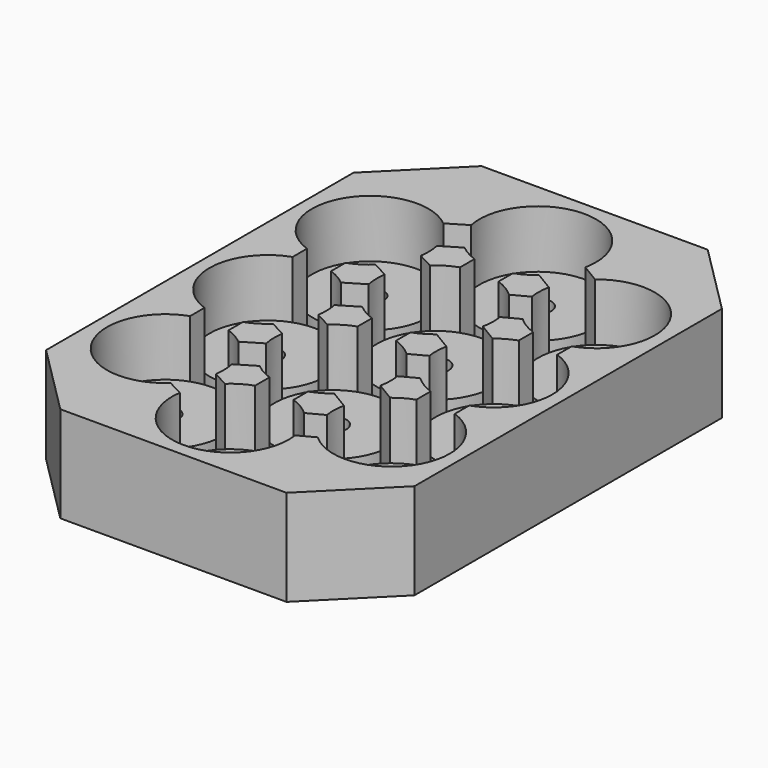
from build123d import *

# Parameters (mm, degrees)
F1_DEPTH = 15
F0_R     = 2.1
F2_DEPTH = 6


with BuildPart() as f1:
    # F0 (on Top) → F1 (new body)
    with BuildSketch(Plane.XY):
        Polygon((-17.6589518572, 71.1), (-28.7589518572, 60), (-28.7589518572, 0), (-17.6589518572, -11.1), (17.6589518572, -11.1), (28.7589518572, 0), (28.7589518572, 60), (17.6589518572, 71.1), align=None)
        with BuildLine():
            ThreePointArc((-20.6589518572, 40.7981566122), (-25.5791886902, 53.8704856527), (-11.8399063862, 56.3857667112))
            Line((-11.8399063862, 56.3857667112), (-8.9092739205, 58.1466683487))
            ThreePointArc((-8.9092739205, 58.1466683487), (-0.9315598004, 69.0521929022), (9.1, 60))
            ThreePointArc((9.1, 60), (9.0521929022, 59.0684401996), (8.9092739205, 58.1466683487))
            Line((8.9092739205, 58.1466683487), (11.8399063862, 56.3857667112))
            ThreePointArc((11.8399063862, 56.3857667112), (21.5226732637, 57.6284637774), (26.7589518572, 49.3894312557))
            ThreePointArc((26.7589518572, 49.3894312557), (25.078857517, 44.1211298217), (20.6589518572, 40.7981566122))
            Line((20.6589518572, 40.7981566122), (20.6589518572, 37.9807058992))
            ThreePointArc((20.6589518572, 37.9807058992), (25.078857517, 34.6577326898), (26.7589518572, 29.3894312557))
            ThreePointArc((26.7589518572, 29.3894312557), (25.078857517, 24.1211298217), (20.6589518572, 20.7981566122))
            Line((20.6589518572, 20.7981566122), (20.6589518572, 17.9807058992))
            ThreePointArc((20.6589518572, 17.9807058992), (25.078857517, 14.6577326898), (26.7589518572, 9.3894312557))
            ThreePointArc((26.7589518572, 9.3894312557), (21.3056765344, 1.0520816092), (11.4817212795, 2.7072293439))
            Line((11.4817212795, 2.7072293439), (8.9940599544, 1.3845163546))
            ThreePointArc((8.9940599544, 1.3845163546), (9.0734763345, 0.6942817925), (9.1, 0))
            ThreePointArc((9.1, 0), (-0.6942817925, -9.0734763345), (-8.9940599544, 1.3845163546))
            Line((-8.9940599544, 1.3845163546), (-11.4817212795, 2.7072293439))
            ThreePointArc((-11.4817212795, 2.7072293439), (-25.4591742936, 4.702584774), (-20.6589518572, 17.9807058992))
            Line((-20.6589518572, 17.9807058992), (-20.6589518572, 20.7981566122))
            ThreePointArc((-20.6589518572, 20.7981566122), (-26.7589518572, 29.3894312557), (-20.6589518572, 37.9807058992))
            Line((-20.6589518572, 37.9807058992), (-20.6589518572, 40.7981566122))
        make_face(mode=Mode.SUBTRACT)
    extrude(amount=F1_DEPTH)



with BuildPart() as f1b:
    # F0 (on Top) → F1, piece 2 (new body)
    with BuildSketch(Plane.XY):
        with BuildLine():
            ThreePointArc((-8.7496779367, 51.242762907), (-8.606758955, 50.3209910562), (-8.5589518572, 49.3894312557))
            ThreePointArc((-8.5589518572, 49.3894312557), (-8.5854755227, 48.6951494632), (-8.6648919028, 48.0049149011))
            Line((-8.6648919028, 48.0049149011), (-6.1772305777, 46.6822019118))
            ThreePointArc((-6.1772305777, 46.6822019118), (-4.6868464817, 47.8002224364), (-3, 48.5912746435))
            Line((-3, 48.5912746435), (-3, 51.4087253565))
            ThreePointArc((-3, 51.4087253565), (-4.4810543969, 52.0797631669), (-5.819045471, 53.0036645445))
            Line((-5.819045471, 53.0036645445), (-8.7496779367, 51.242762907))
        make_face()
    extrude(amount=F1_DEPTH)


with BuildPart() as f1c:
    # F0 (on Top) → F1, piece 3 (new body)
    with BuildSketch(Plane.XY):
        with BuildLine():
            ThreePointArc((5.819045471, 53.0036645445), (4.4810543969, 52.0797631669), (3, 51.4087253565))
            Line((3, 51.4087253565), (3, 48.5912746435))
            ThreePointArc((3, 48.5912746435), (4.6868464817, 47.8002224364), (6.1772305777, 46.6822019118))
            Line((6.1772305777, 46.6822019118), (8.6648919028, 48.0049149011))
            ThreePointArc((8.6648919028, 48.0049149011), (8.5620701999, 49.6276414853), (8.7496779367, 51.242762907))
            Line((8.7496779367, 51.242762907), (5.819045471, 53.0036645445))
        make_face()
    extrude(amount=F1_DEPTH)


with BuildPart() as f1d:
    # F0 (on Top) → F1, piece 4 (new body)
    with BuildSketch(Plane.XY):
        with BuildLine():
            Line((11.4817212795, 42.7072293439), (8.9940599544, 41.3845163546))
            ThreePointArc((8.9940599544, 41.3845163546), (9.0734763345, 40.6942817925), (9.1, 40))
            ThreePointArc((9.1, 40), (9.0521929022, 39.0684401996), (8.9092739205, 38.1466683487))
            Line((8.9092739205, 38.1466683487), (11.8399063862, 36.3857667112))
            ThreePointArc((11.8399063862, 36.3857667112), (13.1778974602, 37.3096680888), (14.6589518572, 37.9807058992))
            Line((14.6589518572, 37.9807058992), (14.6589518572, 40.7981566122))
            ThreePointArc((14.6589518572, 40.7981566122), (12.9721053755, 41.5892088193), (11.4817212795, 42.7072293439))
        make_face()
    extrude(amount=F1_DEPTH)


with BuildPart() as f1e:
    # F0 (on Top) → F1, piece 5 (new body)
    with BuildSketch(Plane.XY):
        with BuildLine():
            Line((-8.9940599544, 41.3845163546), (-11.4817212795, 42.7072293439))
            ThreePointArc((-11.4817212795, 42.7072293439), (-12.9721053755, 41.5892088193), (-14.6589518572, 40.7981566122))
            Line((-14.6589518572, 40.7981566122), (-14.6589518572, 37.9807058992))
            ThreePointArc((-14.6589518572, 37.9807058992), (-13.1778974602, 37.3096680888), (-11.8399063862, 36.3857667112))
            Line((-11.8399063862, 36.3857667112), (-8.9092739205, 38.1466683487))
            ThreePointArc((-8.9092739205, 38.1466683487), (-9.0968816573, 39.7617897704), (-8.9940599544, 41.3845163546))
        make_face()
    extrude(amount=F1_DEPTH)


with BuildPart() as f1f:
    # F0 (on Top) → F1, piece 6 (new body)
    with BuildSketch(Plane.XY):
        with BuildLine():
            ThreePointArc((-3, 31.4087253565), (-4.4810543969, 32.0797631669), (-5.819045471, 33.0036645445))
            Line((-5.819045471, 33.0036645445), (-8.7496779367, 31.242762907))
            ThreePointArc((-8.7496779367, 31.242762907), (-8.606758955, 30.3209910562), (-8.5589518572, 29.3894312557))
            ThreePointArc((-8.5589518572, 29.3894312557), (-8.5854755227, 28.6951494632), (-8.6648919028, 28.0049149011))
            Line((-8.6648919028, 28.0049149011), (-6.1772305777, 26.6822019118))
            ThreePointArc((-6.1772305777, 26.6822019118), (-4.6868464817, 27.8002224364), (-3, 28.5912746435))
            Line((-3, 28.5912746435), (-3, 31.4087253565))
        make_face()
    extrude(amount=F1_DEPTH)


with BuildPart() as f1g:
    # F0 (on Top) → F1, piece 7 (new body)
    with BuildSketch(Plane.XY):
        with BuildLine():
            ThreePointArc((5.819045471, 33.0036645445), (4.4810543969, 32.0797631669), (3, 31.4087253565))
            Line((3, 31.4087253565), (3, 28.5912746435))
            ThreePointArc((3, 28.5912746435), (4.6868464817, 27.8002224364), (6.1772305777, 26.6822019118))
            Line((6.1772305777, 26.6822019118), (8.6648919028, 28.0049149011))
            ThreePointArc((8.6648919028, 28.0049149011), (8.5620701999, 29.6276414853), (8.7496779367, 31.242762907))
            Line((8.7496779367, 31.242762907), (5.819045471, 33.0036645445))
        make_face()
    extrude(amount=F1_DEPTH)


with BuildPart() as f1h:
    # F0 (on Top) → F1, piece 8 (new body)
    with BuildSketch(Plane.XY):
        with BuildLine():
            Line((11.4817212795, 22.7072293439), (8.9940599544, 21.3845163546))
            ThreePointArc((8.9940599544, 21.3845163546), (9.0734763345, 20.6942817925), (9.1, 20))
            ThreePointArc((9.1, 20), (9.0521929022, 19.0684401996), (8.9092739205, 18.1466683487))
            Line((8.9092739205, 18.1466683487), (11.8399063862, 16.3857667112))
            ThreePointArc((11.8399063862, 16.3857667112), (13.1778974602, 17.3096680888), (14.6589518572, 17.9807058992))
            Line((14.6589518572, 17.9807058992), (14.6589518572, 20.7981566122))
            ThreePointArc((14.6589518572, 20.7981566122), (12.9721053755, 21.5892088193), (11.4817212795, 22.7072293439))
        make_face()
    extrude(amount=F1_DEPTH)


with BuildPart() as f1i:
    # F0 (on Top) → F1, piece 9 (new body)
    with BuildSketch(Plane.XY):
        with BuildLine():
            Line((3, 11.4087253565), (3, 8.5912746435))
            ThreePointArc((3, 8.5912746435), (4.6868464817, 7.8002224364), (6.1772305777, 6.6822019118))
            Line((6.1772305777, 6.6822019118), (8.6648919028, 8.0049149011))
            ThreePointArc((8.6648919028, 8.0049149011), (8.5620701999, 9.6276414853), (8.7496779367, 11.242762907))
            Line((8.7496779367, 11.242762907), (5.819045471, 13.0036645445))
            ThreePointArc((5.819045471, 13.0036645445), (4.4810543969, 12.0797631669), (3, 11.4087253565))
        make_face()
    extrude(amount=F1_DEPTH)


with BuildPart() as f1j:
    # F0 (on Top) → F1, piece 10 (new body)
    with BuildSketch(Plane.XY):
        with BuildLine():
            ThreePointArc((-11.4817212795, 22.7072293439), (-12.9721053755, 21.5892088193), (-14.6589518572, 20.7981566122))
            Line((-14.6589518572, 20.7981566122), (-14.6589518572, 17.9807058992))
            ThreePointArc((-14.6589518572, 17.9807058992), (-13.1778974602, 17.3096680888), (-11.8399063862, 16.3857667112))
            Line((-11.8399063862, 16.3857667112), (-8.9092739205, 18.1466683487))
            ThreePointArc((-8.9092739205, 18.1466683487), (-9.0968816573, 19.7617897704), (-8.9940599544, 21.3845163546))
            Line((-8.9940599544, 21.3845163546), (-11.4817212795, 22.7072293439))
        make_face()
    extrude(amount=F1_DEPTH)


with BuildPart() as f1k:
    # F0 (on Top) → F1, piece 11 (new body)
    with BuildSketch(Plane.XY):
        with BuildLine():
            ThreePointArc((-8.5589518572, 9.3894312557), (-8.5854755227, 8.6951494632), (-8.6648919028, 8.0049149011))
            Line((-8.6648919028, 8.0049149011), (-6.1772305777, 6.6822019118))
            ThreePointArc((-6.1772305777, 6.6822019118), (-4.6868464817, 7.8002224364), (-3, 8.5912746435))
            Line((-3, 8.5912746435), (-3, 11.4087253565))
            ThreePointArc((-3, 11.4087253565), (-4.4810543969, 12.0797631669), (-5.819045471, 13.0036645445))
            Line((-5.819045471, 13.0036645445), (-8.7496779367, 11.242762907))
            ThreePointArc((-8.7496779367, 11.242762907), (-8.606758955, 10.3209910562), (-8.5589518572, 9.3894312557))
        make_face()
    extrude(amount=F1_DEPTH)


with BuildPart() as f1_1:
    add(f1.part)

    add(f1b.part)  # F2 merges F1b

    add(f1c.part)  # F2 merges F1c

    add(f1d.part)  # F2 merges F1d

    add(f1e.part)  # F2 merges F1e

    add(f1f.part)  # F2 merges F1f

    add(f1g.part)  # F2 merges F1g

    add(f1h.part)  # F2 merges F1h

    add(f1i.part)  # F2 merges F1i

    add(f1j.part)  # F2 merges F1j

    add(f1k.part)  # F2 merges F1k
    # F0 (on Top) → F2 (join)
    with BuildSketch(Plane.XY):
        with BuildLine():
            ThreePointArc((-8.9092739205, 58.1466683487), (-7.8002224364, 55.3131535183), (-5.819045471, 53.0036645445))
            ThreePointArc((-5.819045471, 53.0036645445), (-4.4810543969, 52.0797631669), (-3, 51.4087253565))
            ThreePointArc((-3, 51.4087253565), (0, 50.9), (3, 51.4087253565))
            ThreePointArc((3, 51.4087253565), (4.4810543969, 52.0797631669), (5.819045471, 53.0036645445))
            ThreePointArc((5.819045471, 53.0036645445), (7.8002224364, 55.3131535183), (8.9092739205, 58.1466683487))
            ThreePointArc((8.9092739205, 58.1466683487), (9.0521929022, 59.0684401996), (9.1, 60))
            ThreePointArc((9.1, 60), (-0.9315598004, 69.0521929022), (-8.9092739205, 58.1466683487))
        make_face()
        with Locations((0, 60)):
            Circle(F0_R, mode=Mode.SUBTRACT)
        with BuildLine():
            ThreePointArc((26.7589518572, 49.3894312557), (21.5226732637, 57.6284637774), (11.8399063862, 56.3857667112))
            ThreePointArc((11.8399063862, 56.3857667112), (9.8587294208, 54.0762777374), (8.7496779367, 51.242762907))
            ThreePointArc((8.7496779367, 51.242762907), (8.5620701999, 49.6276414853), (8.6648919028, 48.0049149011))
            ThreePointArc((8.6648919028, 48.0049149011), (9.6241287622, 45.1172400344), (11.4817212795, 42.7072293439))
            ThreePointArc((11.4817212795, 42.7072293439), (12.9721053755, 41.5892088193), (14.6589518572, 40.7981566122))
            ThreePointArc((14.6589518572, 40.7981566122), (17.6589518572, 40.2894312557), (20.6589518572, 40.7981566122))
            ThreePointArc((20.6589518572, 40.7981566122), (25.078857517, 44.1211298217), (26.7589518572, 49.3894312557))
        make_face()
        with Locations((17.6589518572, 49.3894312557)):
            Circle(F0_R, mode=Mode.SUBTRACT)
        with BuildLine():
            ThreePointArc((-8.6648919028, 48.0049149011), (-8.5854755227, 48.6951494632), (-8.5589518572, 49.3894312557))
            ThreePointArc((-8.5589518572, 49.3894312557), (-8.606758955, 50.3209910562), (-8.7496779367, 51.242762907))
            ThreePointArc((-8.7496779367, 51.242762907), (-9.8587294208, 54.0762777374), (-11.8399063862, 56.3857667112))
            ThreePointArc((-11.8399063862, 56.3857667112), (-25.5791886902, 53.8704856527), (-20.6589518572, 40.7981566122))
            ThreePointArc((-20.6589518572, 40.7981566122), (-17.6589518572, 40.2894312557), (-14.6589518572, 40.7981566122))
            ThreePointArc((-14.6589518572, 40.7981566122), (-12.9721053755, 41.5892088193), (-11.4817212795, 42.7072293439))
            ThreePointArc((-11.4817212795, 42.7072293439), (-9.6241287622, 45.1172400344), (-8.6648919028, 48.0049149011))
        make_face()
        with Locations((-17.6589518572, 49.3894312557)):
            Circle(F0_R, mode=Mode.SUBTRACT)
        with BuildLine():
            ThreePointArc((-14.6589518572, 37.9807058992), (-17.6589518572, 38.4894312557), (-20.6589518572, 37.9807058992))
            ThreePointArc((-20.6589518572, 37.9807058992), (-26.7589518572, 29.3894312557), (-20.6589518572, 20.7981566122))
            ThreePointArc((-20.6589518572, 20.7981566122), (-17.6589518572, 20.2894312557), (-14.6589518572, 20.7981566122))
            ThreePointArc((-14.6589518572, 20.7981566122), (-12.9721053755, 21.5892088193), (-11.4817212795, 22.7072293439))
            ThreePointArc((-11.4817212795, 22.7072293439), (-9.6241287622, 25.1172400344), (-8.6648919028, 28.0049149011))
            ThreePointArc((-8.6648919028, 28.0049149011), (-8.5854755227, 28.6951494632), (-8.5589518572, 29.3894312557))
            ThreePointArc((-8.5589518572, 29.3894312557), (-8.606758955, 30.3209910562), (-8.7496779367, 31.242762907))
            ThreePointArc((-8.7496779367, 31.242762907), (-9.8587294208, 34.0762777374), (-11.8399063862, 36.3857667112))
            ThreePointArc((-11.8399063862, 36.3857667112), (-13.1778974602, 37.3096680888), (-14.6589518572, 37.9807058992))
        make_face()
        with Locations((-17.6589518572, 29.3894312557)):
            Circle(F0_R, mode=Mode.SUBTRACT)
        with BuildLine():
            ThreePointArc((26.7589518572, 29.3894312557), (25.078857517, 34.6577326898), (20.6589518572, 37.9807058992))
            ThreePointArc((20.6589518572, 37.9807058992), (17.6589518572, 38.4894312557), (14.6589518572, 37.9807058992))
            ThreePointArc((14.6589518572, 37.9807058992), (13.1778974602, 37.3096680888), (11.8399063862, 36.3857667112))
            ThreePointArc((11.8399063862, 36.3857667112), (9.8587294208, 34.0762777374), (8.7496779367, 31.242762907))
            ThreePointArc((8.7496779367, 31.242762907), (8.5620701999, 29.6276414853), (8.6648919028, 28.0049149011))
            ThreePointArc((8.6648919028, 28.0049149011), (9.6241287622, 25.1172400344), (11.4817212795, 22.7072293439))
            ThreePointArc((11.4817212795, 22.7072293439), (12.9721053755, 21.5892088193), (14.6589518572, 20.7981566122))
            ThreePointArc((14.6589518572, 20.7981566122), (17.6589518572, 20.2894312557), (20.6589518572, 20.7981566122))
            ThreePointArc((20.6589518572, 20.7981566122), (25.078857517, 24.1211298217), (26.7589518572, 29.3894312557))
        make_face()
        with Locations((17.6589518572, 29.3894312557)):
            Circle(F0_R, mode=Mode.SUBTRACT)
        with BuildLine():
            ThreePointArc((-3, 48.5912746435), (-4.6868464817, 47.8002224364), (-6.1772305777, 46.6822019118))
            ThreePointArc((-6.1772305777, 46.6822019118), (-8.034823095, 44.2721912214), (-8.9940599544, 41.3845163546))
            ThreePointArc((-8.9940599544, 41.3845163546), (-9.0968816573, 39.7617897704), (-8.9092739205, 38.1466683487))
            ThreePointArc((-8.9092739205, 38.1466683487), (-7.8002224364, 35.3131535183), (-5.819045471, 33.0036645445))
            ThreePointArc((-5.819045471, 33.0036645445), (-4.4810543969, 32.0797631669), (-3, 31.4087253565))
            ThreePointArc((-3, 31.4087253565), (0, 30.9), (3, 31.4087253565))
            ThreePointArc((3, 31.4087253565), (4.4810543969, 32.0797631669), (5.819045471, 33.0036645445))
            ThreePointArc((5.819045471, 33.0036645445), (7.8002224364, 35.3131535183), (8.9092739205, 38.1466683487))
            ThreePointArc((8.9092739205, 38.1466683487), (9.0521929022, 39.0684401996), (9.1, 40))
            ThreePointArc((9.1, 40), (9.0734763345, 40.6942817925), (8.9940599544, 41.3845163546))
            ThreePointArc((8.9940599544, 41.3845163546), (8.034823095, 44.2721912214), (6.1772305777, 46.6822019118))
            ThreePointArc((6.1772305777, 46.6822019118), (4.6868464817, 47.8002224364), (3, 48.5912746435))
            ThreePointArc((3, 48.5912746435), (0, 49.1), (-3, 48.5912746435))
        make_face()
        with Locations((0, 40)):
            Circle(F0_R, mode=Mode.SUBTRACT)
        with BuildLine():
            ThreePointArc((3, 28.5912746435), (0, 29.1), (-3, 28.5912746435))
            ThreePointArc((-3, 28.5912746435), (-4.6868464817, 27.8002224364), (-6.1772305777, 26.6822019118))
            ThreePointArc((-6.1772305777, 26.6822019118), (-8.034823095, 24.2721912214), (-8.9940599544, 21.3845163546))
            ThreePointArc((-8.9940599544, 21.3845163546), (-9.0968816573, 19.7617897704), (-8.9092739205, 18.1466683487))
            ThreePointArc((-8.9092739205, 18.1466683487), (-7.8002224364, 15.3131535183), (-5.819045471, 13.0036645445))
            ThreePointArc((-5.819045471, 13.0036645445), (-4.4810543969, 12.0797631669), (-3, 11.4087253565))
            ThreePointArc((-3, 11.4087253565), (0, 10.9), (3, 11.4087253565))
            ThreePointArc((3, 11.4087253565), (4.4810543969, 12.0797631669), (5.819045471, 13.0036645445))
            ThreePointArc((5.819045471, 13.0036645445), (7.8002224364, 15.3131535183), (8.9092739205, 18.1466683487))
            ThreePointArc((8.9092739205, 18.1466683487), (9.0521929022, 19.0684401996), (9.1, 20))
            ThreePointArc((9.1, 20), (9.0734763345, 20.6942817925), (8.9940599544, 21.3845163546))
            ThreePointArc((8.9940599544, 21.3845163546), (8.034823095, 24.2721912214), (6.1772305777, 26.6822019118))
            ThreePointArc((6.1772305777, 26.6822019118), (4.6868464817, 27.8002224364), (3, 28.5912746435))
        make_face()
        with Locations((0, 20)):
            Circle(F0_R, mode=Mode.SUBTRACT)
        with BuildLine():
            ThreePointArc((8.6648919028, 8.0049149011), (9.6241287622, 5.1172400344), (11.4817212795, 2.7072293439))
            ThreePointArc((11.4817212795, 2.7072293439), (21.3056765344, 1.0520816092), (26.7589518572, 9.3894312557))
            ThreePointArc((26.7589518572, 9.3894312557), (25.078857517, 14.6577326898), (20.6589518572, 17.9807058992))
            ThreePointArc((20.6589518572, 17.9807058992), (17.6589518572, 18.4894312557), (14.6589518572, 17.9807058992))
            ThreePointArc((14.6589518572, 17.9807058992), (13.1778974602, 17.3096680888), (11.8399063862, 16.3857667112))
            ThreePointArc((11.8399063862, 16.3857667112), (9.8587294208, 14.0762777374), (8.7496779367, 11.242762907))
            ThreePointArc((8.7496779367, 11.242762907), (8.5620701999, 9.6276414853), (8.6648919028, 8.0049149011))
        make_face()
        with Locations((17.6589518572, 9.3894312557)):
            Circle(F0_R, mode=Mode.SUBTRACT)
        with BuildLine():
            ThreePointArc((-6.1772305777, 6.6822019118), (-8.034823095, 4.2721912214), (-8.9940599544, 1.3845163546))
            ThreePointArc((-8.9940599544, 1.3845163546), (-0.6942817925, -9.0734763345), (9.1, 0))
            ThreePointArc((9.1, 0), (9.0734763345, 0.6942817925), (8.9940599544, 1.3845163546))
            ThreePointArc((8.9940599544, 1.3845163546), (8.034823095, 4.2721912214), (6.1772305777, 6.6822019118))
            ThreePointArc((6.1772305777, 6.6822019118), (4.6868464817, 7.8002224364), (3, 8.5912746435))
            ThreePointArc((3, 8.5912746435), (0, 9.1), (-3, 8.5912746435))
            ThreePointArc((-3, 8.5912746435), (-4.6868464817, 7.8002224364), (-6.1772305777, 6.6822019118))
        make_face()
        Circle(F0_R, mode=Mode.SUBTRACT)
        with BuildLine():
            ThreePointArc((-14.6589518572, 17.9807058992), (-17.6589518572, 18.4894312557), (-20.6589518572, 17.9807058992))
            ThreePointArc((-20.6589518572, 17.9807058992), (-25.4591742936, 4.702584774), (-11.4817212795, 2.7072293439))
            ThreePointArc((-11.4817212795, 2.7072293439), (-9.6241287622, 5.1172400344), (-8.6648919028, 8.0049149011))
            ThreePointArc((-8.6648919028, 8.0049149011), (-8.5854755227, 8.6951494632), (-8.5589518572, 9.3894312557))
            ThreePointArc((-8.5589518572, 9.3894312557), (-8.606758955, 10.3209910562), (-8.7496779367, 11.242762907))
            ThreePointArc((-8.7496779367, 11.242762907), (-9.8587294208, 14.0762777374), (-11.8399063862, 16.3857667112))
            ThreePointArc((-11.8399063862, 16.3857667112), (-13.1778974602, 17.3096680888), (-14.6589518572, 17.9807058992))
        make_face()
        with Locations((-17.6589518572, 9.3894312557)):
            Circle(F0_R, mode=Mode.SUBTRACT)
    extrude(amount=F2_DEPTH)


solid = f1_1.part
